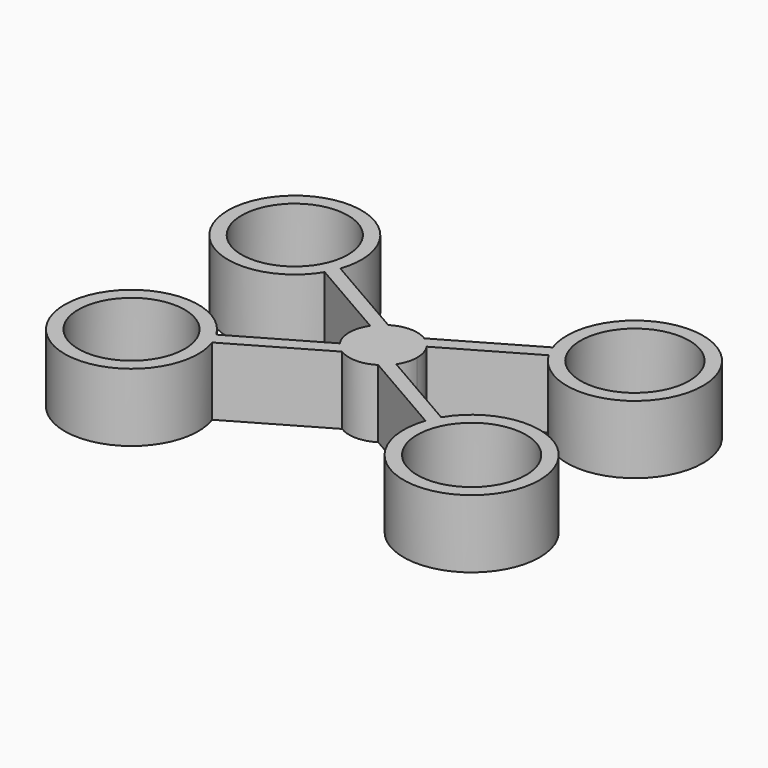
from build123d import *

# Parameters (mm, degrees)
F0_R     = 19.862502
F0_R_2   = 20.32
F1_DEPTH = 25.4


with BuildPart() as f1:
    # F0 (on Top) → F1 (new body)
    with BuildSketch(Plane.XY):
        with BuildLine():
            Line((-6.737181, 10.765705), (-39.937707, 29.917902))
            ThreePointArc((-39.937707, 29.917902), (-86.102523, 48.647717), (-42.094026, 25.297161))
            Line((-42.094026, 25.297161), (-10.535305, 7.092062))
            ThreePointArc((-10.535305, 7.092062), (-12.146777, 3.707535), (-12.7, 0))
            ThreePointArc((-12.7, 0), (-12.146777, -3.707535), (-10.535305, -7.092062))
            Line((-10.535305, -7.092062), (-42.094026, -25.297161))
            ThreePointArc((-42.094026, -25.297161), (-86.102523, -48.647717), (-39.937707, -29.917902))
            Line((-39.937707, -29.917902), (-6.737181, -10.765705))
            ThreePointArc((-6.737181, -10.765705), (0, -12.7), (6.737181, -10.765705))
            Line((6.737181, -10.765705), (39.534366, -29.685229))
            ThreePointArc((39.534366, -29.685229), (86.500102, -48.877538), (41.69769, -25.068528))
            Line((41.69769, -25.068528), (10.535305, -7.092062))
            ThreePointArc((10.535305, -7.092062), (12.146777, -3.707535), (12.7, 0))
            ThreePointArc((12.7, 0), (12.146777, 3.707535), (10.535305, 7.092062))
            Line((10.535305, 7.092062), (41.69769, 25.068528))
            ThreePointArc((41.69769, 25.068528), (86.500102, 48.877538), (39.534366, 29.685229))
            Line((39.534366, 29.685229), (6.737181, 10.765705))
            ThreePointArc((6.737181, 10.765705), (0, 12.7), (-6.737181, 10.765705))
        make_face()
        with Locations((-63.5, -38.1)):
            Circle(F0_R, mode=Mode.SUBTRACT)
        with Locations((63.5, -38.1)):
            Circle(F0_R_2, mode=Mode.SUBTRACT)
        with Locations((-63.5, 38.1)):
            Circle(F0_R, mode=Mode.SUBTRACT)
        with Locations((63.5, 38.1)):
            Circle(F0_R_2, mode=Mode.SUBTRACT)
    extrude(amount=F1_DEPTH)


solid = f1.part
